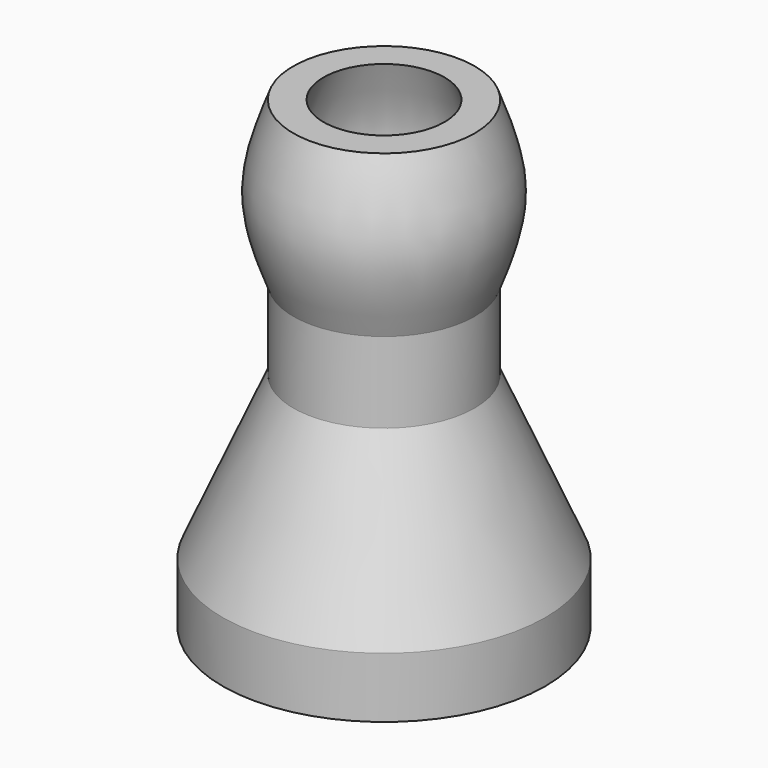
from build123d import *

# Parameters (mm, degrees)
F6_R      = 4.5
F6_R_2    = 3.5
F9_DEPTH  = 4
F0_R      = 8
F0_R_2    = 6
F10_DEPTH = 3
F2_R      = 8
F4_R      = 4.5


with BuildPart() as f8:
    # F7 (on Front) → F8 (revolve)
    with BuildSketch(Plane.XZ):
        with BuildLine():
            Line((4.5, 23), (3, 23))
            add(Edge.make_bspline(
                [(3, 23), (3.5, 21.6666666667), (4.5, 19), (3.5, 16.3333333333), (3, 15)],
                knots=[0, 0, 0, 0, 0.5, 1, 1, 1, 1], degree=3))
            Line((3, 15), (4.5, 15))
            add(Edge.make_bspline(
                [(4.5, 23), (5, 21.6666666667), (6, 19), (5, 16.3333333333), (4.5, 15)],
                knots=[0, 0, 0, 0, 0.5, 1, 1, 1, 1], degree=3))
        make_face()
    revolve(axis=Axis((0, 0, 19), (0, 0, 1)))

    # F6 (on offset) → F9 (join, through all)
    with BuildSketch(Plane.XY.offset(15)):
        Circle(F6_R)
        Circle(F6_R_2, mode=Mode.SUBTRACT)
    extrude(amount=-F9_DEPTH)



with BuildPart() as f10:
    # F0 (on Top) → F10 (new body, through all)
    with BuildSketch(Plane.XY):
        Circle(F0_R)
        Circle(F0_R_2, mode=Mode.SUBTRACT)
    extrude(amount=F10_DEPTH)


with BuildPart() as f8_1:
    add(f8.part)

    add(f10.part)  # F11 merges F10
    # F2 (on offset) → F11 section 0
    with BuildSketch(Plane.XY.offset(3)):
        Circle(F2_R)
    # F4 (on offset) → F11 section 1
    with BuildSketch(Plane.XY.offset(11)):
        Circle(F4_R)
    loft()


solid = f8_1.part
